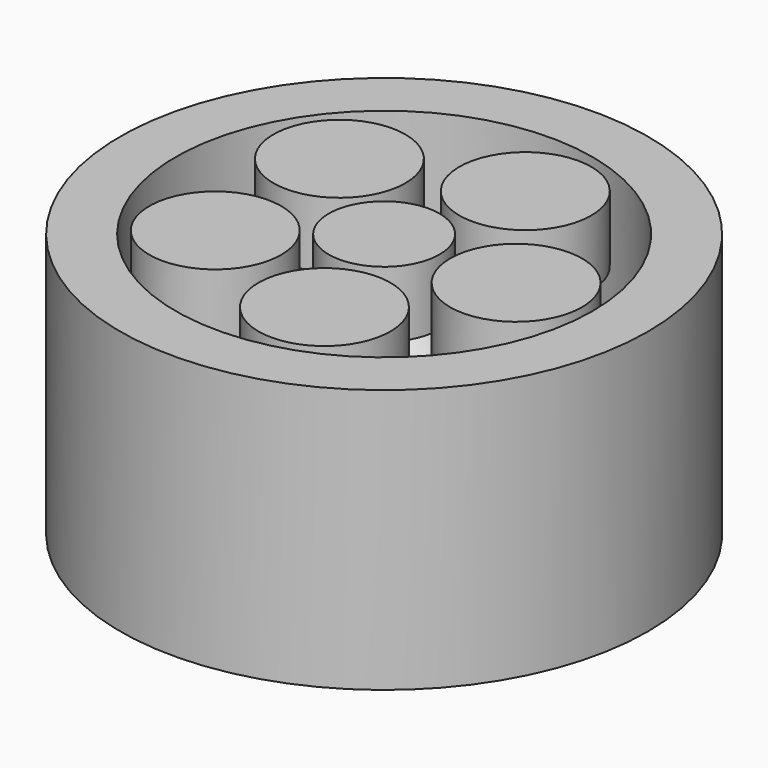
from build123d import *

# Parameters (mm, degrees)
F0_W     = 2.667
F0_H     = 12.7
F3_COUNT = 5


with BuildPart() as f1:
    # F0 (on Front) → F1 (revolve)
    with BuildSketch(Plane.XZ):
        with BuildLine():
            Line((3.175, 3.175), (3.175, 0))
            Line((3.175, 0), (6.35, 0))
            Line((6.35, 0), (6.35, 12.7))
            Line((6.35, 12.7), (3.175, 12.7))
            Line((3.175, 12.7), (3.175, 9.525))
            ThreePointArc((3.175, 9.525), (4.7625, 6.35), (3.175, 3.175))
        make_face()
    revolve(axis=Axis((6.35, 0, 6.35), (0, 0, -1)))


with BuildPart() as f2:
    # F0 (on Front) → F2 (revolve)
    with BuildSketch(Plane.XZ):
        with BuildLine():
            Line((0, 12.7), (0, 0))
            Line((0, 0), (2.667, 0))
            Line((2.667, 0), (2.667, 3.175))
            ThreePointArc((2.667, 3.175), (4.2545, 6.35), (2.667, 9.525))
            Line((2.667, 9.525), (2.667, 12.7))
            Line((2.667, 12.7), (0, 12.7))
        make_face()
        with Locations((11.3665, 6.35)):
            Rectangle(F0_W, F0_H)
    revolve(axis=Axis((0, 0, 6.35), (0, 0, 1)))


with BuildPart() as f3_1:
    # F3: instance of F1
    add(f1.part.rotate(Axis((0, 0, 6.35), (0, 0, 1)), 1 * 360 / F3_COUNT))


with BuildPart() as f3_2:
    # F3: instance of F1
    add(f1.part.rotate(Axis((0, 0, 6.35), (0, 0, 1)), 2 * 360 / F3_COUNT))


with BuildPart() as f3_3:
    # F3: instance of F1
    add(f1.part.rotate(Axis((0, 0, 6.35), (0, 0, 1)), 3 * 360 / F3_COUNT))


with BuildPart() as f3_4:
    # F3: instance of F1
    add(f1.part.rotate(Axis((0, 0, 6.35), (0, 0, 1)), 4 * 360 / F3_COUNT))


solid = Compound([f1.part, f2.part, f3_1.part, f3_2.part, f3_3.part, f3_4.part])
